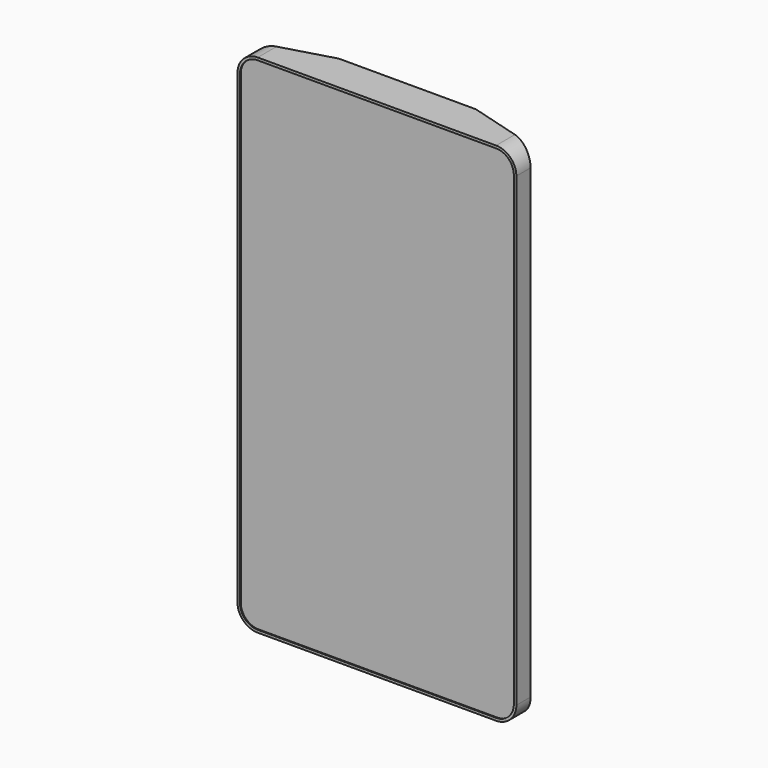
from build123d import *

# Parameters (mm, degrees)
F0_W     = 69.85
F0_H     = 126.8157162973
F1_DEPTH = 9.525
F2_SIZE2 = 5.08
F2_SIZE  = 17.78
F3_R     = 5.08
F5_DEPTH = 1.27
F6_DEPTH = 1.016
F7_W     = 28.575
F7_H     = 12.7
F8_DEPTH = 3.175


with BuildPart() as f1:
    # F0 (on Front) → F1 (new body)
    with BuildSketch(Plane.XZ):
        Rectangle(F0_W, F0_H)
    extrude(amount=F1_DEPTH)

    # F2
    f2_edges = [f1.edges().sort_by_distance(p)[0] for p in [
        (34.925, 0, 0),
        (-34.925, 0, 0),
    ]]
    f2_side = f1.faces().sort_by_distance((0, 0, 0))[0]
    chamfer(f2_edges, length=F2_SIZE, length2=F2_SIZE2, reference=f2_side)

    # F3
    f3_edges = [f1.edges().sort_by_distance(p)[0] for p in [
        (34.925, -7.3025, 63.407858),
        (-34.925, -7.3025, 63.407858),
        (-34.925, -7.3025, -63.407858),
        (34.925, -7.3025, -63.407858),
    ]]
    fillet(f3_edges, radius=F3_R)

    # F4 (on face) → F5 (cut)
    with BuildSketch(Plane.XZ.offset(9.525)):
        with BuildLine():
            Line((-29.845, -62.7728581487), (29.845, -62.7728581487))
            ThreePointArc((29.845, -62.7728581487), (32.9880896424, -61.470947791), (34.29, -58.3278581487))
            Line((34.29, -58.3278581487), (34.29, 58.3278581487))
            ThreePointArc((34.29, 58.3278581487), (32.9880896424, 61.470947791), (29.845, 62.7728581487))
            Line((29.845, 62.7728581487), (-29.845, 62.7728581487))
            ThreePointArc((-29.845, 62.7728581487), (-32.9880896424, 61.470947791), (-34.29, 58.3278581487))
            Line((-34.29, 58.3278581487), (-34.29, -58.3278581487))
            ThreePointArc((-34.29, -58.3278581487), (-32.9880896424, -61.470947791), (-29.845, -62.7728581487))
        make_face()
    extrude(amount=-F5_DEPTH, mode=Mode.SUBTRACT)


with BuildPart() as f6:
    # F6 (new): a face of the model
    f6_faces = [f1.part.faces().sort_by_distance(p)[0] for p in [
        (0, -8.255, 0),
    ]]
    extrude(f6_faces, amount=F6_DEPTH)


with BuildPart() as f1_1:
    add(f1.part)

    # F7 (on face) → F8 (cut)
    with BuildSketch(Plane(origin=(0, 0, 0), x_dir=(-1, 0, 0), z_dir=(0, 1, 0))):
        with Locations((0, -69.7578581487)):
            Rectangle(F7_W, F7_H)
        with Locations((0, -57.0578581487)):
            Rectangle(F7_W, F7_H)
    extrude(amount=-F8_DEPTH, mode=Mode.SUBTRACT)


solid = Compound([f6.part, f1_1.part])
